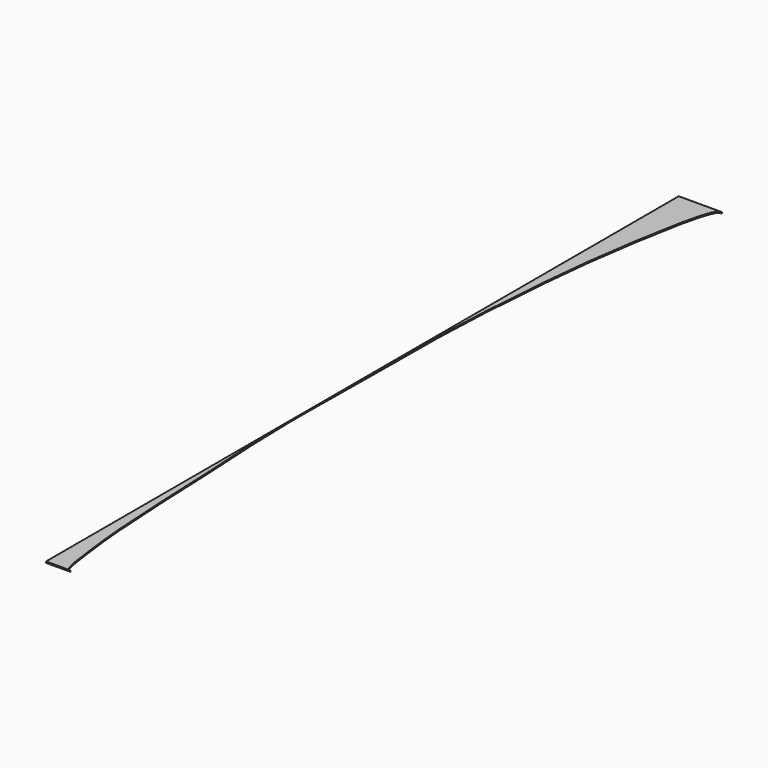
from build123d import *

# Parameters (mm, degrees)
F1_DEPTH = 4


with BuildPart() as f1:
    # F0 (on Top) → F1 (new body)
    with BuildSketch(Plane.XY):
        with BuildLine():
            add(Edge.make_bspline(
                [(-63.2503108851, -275.5051941592), (-62.9408692179, -316.6875653919), (-60.6840284683, -424.5984236254), (-48.1398385873, -600.5116414192), (-42.4967064171, -794.3036102701), (-29.8581469629, -996.1954148658), (-20.3709494175, -1069.0207870402), (-16.4360769223, -1099.2255500962)],
                knots=[0.6213037753, 0.6213037753, 0.6213037753, 0.6213037753, 0.6753773828, 0.762900434, 0.8503989007, 0.9379520403, 1, 1, 1, 1], degree=3))
            Line((-63.2503108851, -275.5051941592), (-63.2503108851, -1203.1855500962))
            Line((-63.2503108851, -1203.1855500962), (10.4001033158, -1203.1855500962))
            add(Edge.make_bspline(
                [(-16.4360769223, -1099.2255500962), (-14.727131828, -1110.191740348), (-11.1668454526, -1130.2682923929), (-9.0326459981, -1154.6557687045), (-6.1077215502, -1177.4792283868), (2.1702037998, -1203.1855500962), (10.4001033158, -1203.1855500962)],
                knots=[0, 0, 0, 0, 0.2705863844, 0.5031032098, 0.7466258405, 1, 1, 1, 1], degree=3))
        make_face()
    extrude(amount=F1_DEPTH)


with BuildPart() as f1b:
    # F0 (on Top) → F1, piece 2 (new body)
    with BuildSketch(Plane.XY):
        with BuildLine():
            Line((-63.2503108851, -275.5051941592), (-63.2503108851, -199.2255500962))
            add(Edge.make_bspline(
                [(-63.2503108851, -199.2255500962), (-63.421834058, -224.65616072), (-63.4413879365, -250.0755028819), (-63.2503108851, -275.5051941592)],
                knots=[0.587913878, 0.587913878, 0.587913878, 0.587913878, 0.6213037753, 0.6213037753, 0.6213037753, 0.6213037753], degree=3))
        make_face()
    extrude(amount=F1_DEPTH)


with BuildPart() as f1c:
    # F0 (on Top) → F1, piece 3 (new body)
    with BuildSketch(Plane.XY):
        with BuildLine():
            add(Edge.make_bspline(
                [(25.9301278811, 1100.7744499038), (20.013131132, 1070.5760677202), (5.7549641121, 997.8071284812), (-24.9301194877, 796.1356047823), (-41.5772926941, 602.1964751306), (-56.3029389855, 400.5257538371), (-61.1823282249, 200.8747745041), (-59.8170411737, 0.7676714709), (-62.8010183453, -132.6119057544), (-63.2503108851, -199.2255500962)],
                knots=[0, 0, 0, 0, 0.0623728759, 0.1502997077, 0.2379595395, 0.3255166193, 0.4129921155, 0.5004514582, 0.587913878, 0.587913878, 0.587913878, 0.587913878], degree=3))
            add(Edge.make_bspline(
                [(25.9301278811, 1100.7744499038), (29.2568916622, 1114.6261132139), (34.9143129038, 1143.8498744419), (49.8700939152, 1191.6950853473), (59.4045832627, 1204.7344499038), (68.2054613377, 1204.7344499038)],
                knots=[0, 0, 0, 0, 0.3666677113, 0.7512525196, 1, 1, 1, 1], degree=3))
            Line((68.2054613377, 1204.7344499038), (-63.2503108851, 1204.7344499038))
            Line((-63.2503108851, 1204.7344499038), (-63.2503108851, -199.2255500962))
        make_face()
    extrude(amount=F1_DEPTH)


solid = Compound([f1.part, f1b.part, f1c.part])
